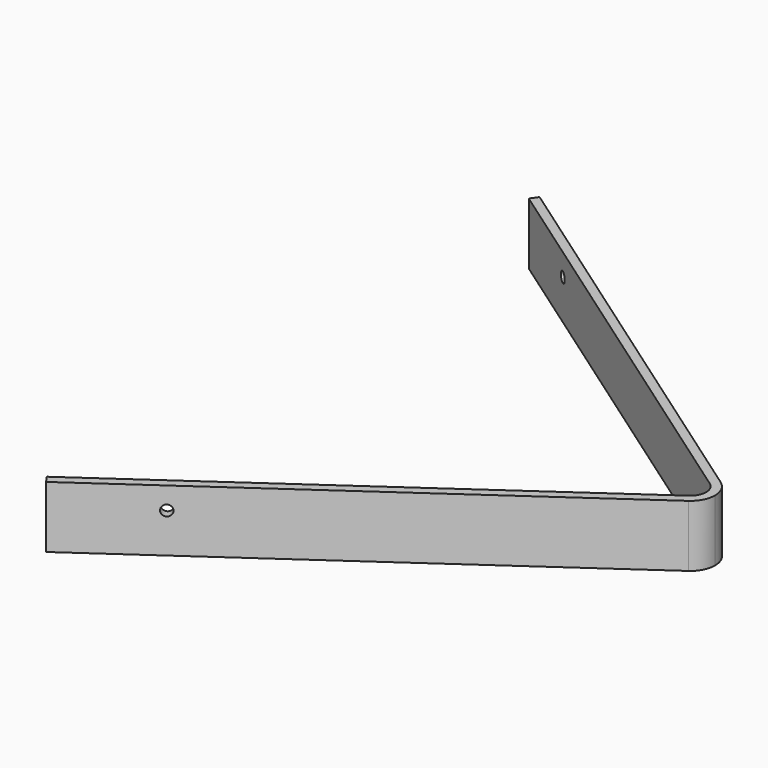
from build123d import *

# Parameters (mm, degrees)
PAD002_DEPTH           = 70
SKETCH006_R            = 6
POCKET002_DEPTH        = 30
SKETCH007_R            = 6
POCKET003_DEPTH        = 284.764355719
LINEARPATTERN001_COUNT = 4
LINEARPATTERN001_PITCH = 173.3333333333


with BuildPart() as part:
    # Sketch004 → Pad002 (new body)
    with BuildSketch(Plane.XY):
        with BuildLine():
            Line((-451.0352920823, 350), (16.0601402178, 22.9362572401))
            ThreePointArc((28, 0), (24.836303329, 12.9289611706), (16.0601402178, 22.9362572401))
            Line((18, 0), (28, 0))
            ThreePointArc((18, 0), (15.9661949972, 8.3114750382), (10.3243758543, 14.7447367972))
            Line((10.3243758543, 14.7447367972), (-456.7710564459, 341.8084795571))
            Line((-456.7710564459, 341.8084795571), (-451.0352920823, 350))
        make_face()
    extrude(amount=PAD002_DEPTH)

    # Sketch006 → Pocket002 (cut)
    with BuildSketch(Plane(origin=(0, 126.75, 0), x_dir=(-1, 0, 0), z_dir=(0, 1, 0))):
        with Locations((26.7405688034, 25.24131)):
            Circle(SKETCH006_R)
    extrude(amount=-POCKET002_DEPTH, mode=Mode.SUBTRACT)

    # Sketch007 (on Face2 of Pocket002) → Pocket003 (cut, through all)
    with BuildSketch(Plane(origin=(10.3243758543, 14.7447367972, 0), x_dir=(0.8191520443, -0.5735764364, 0), z_dir=(-0.5735764364, -0.8191520443, 0))):
        with Locations((-463.0458944975, 45)):
            Circle(SKETCH007_R)
    pocket003 = extrude(amount=-POCKET003_DEPTH, mode=Mode.SUBTRACT)

    # LinearPattern001: Pocket003 ×4
    with Locations(*[Vector(-0.8191520443, 0.5735764364, 0) * (i * LINEARPATTERN001_PITCH) for i in range(1, LINEARPATTERN001_COUNT)]):
        add(pocket003, mode=Mode.SUBTRACT)

    # Mirrored001: part across XZ


with BuildPart() as part_1:
    add(part.part)
    add(part.part.mirror(Plane.XZ))


with BuildPart() as part_2:
    # Body001 placement: moved
    add(part_1.part.moved(Location((0, 0, -20))))


solid = part_2.part
